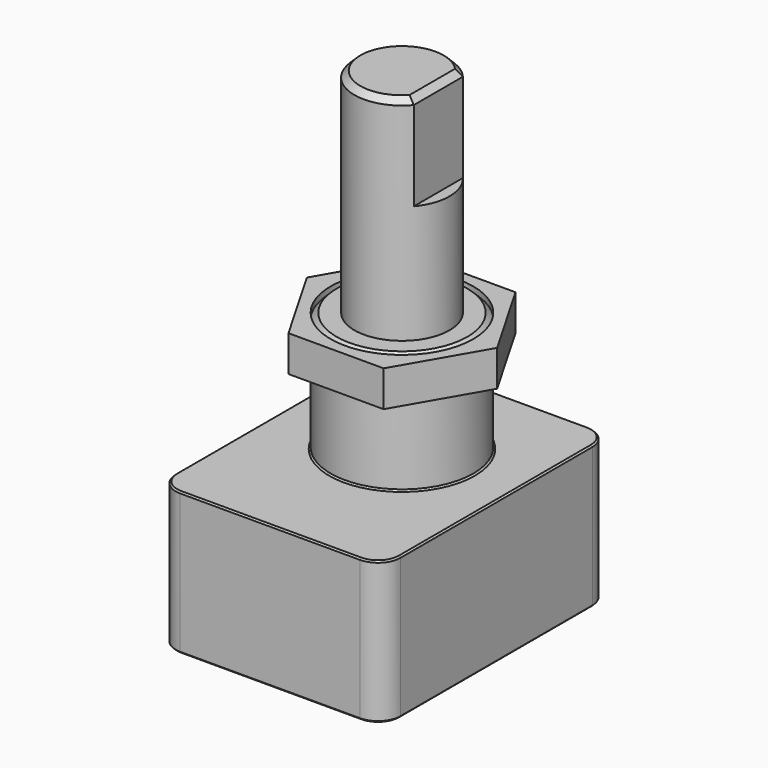
from build123d import *

# Parameters (mm, degrees)
F1_DEPTH  = 9.5
F2_R      = 4.7625
F3_DEPTH  = 8
F4_R      = 3.175
F5_DEPTH  = 14.22
F7_DEPTH  = 6.35
F8_SIZE   = 0.4
F9_R      = 1.5
F10_SIZE  = 0.1
F11_R     = 4.7625
F12_DEPTH = 2.4


with BuildPart() as f1:
    # F0 (on Top) → F1 (new body)
    with BuildSketch(Plane.XY):
        Polygon((7.5, 8), (-7.5, 8), (-7.5, -4.7), (-7.5, -11), (7.5, -11), (7.5, -8), align=None)
    extrude(amount=F1_DEPTH)

    # F2 (on face) → F3 (join)
    with BuildSketch(Plane.XY.offset(9.5)):
        Circle(F2_R)
    extrude(amount=F3_DEPTH)

    # F4 (on face) → F5 (join)
    with BuildSketch(Plane.XY.offset(17.5)):
        Circle(F4_R)
    extrude(amount=F5_DEPTH)

    # F6 (on face) → F7 (cut)
    with BuildSketch(Plane.XY.offset(31.72)):
        with BuildLine():
            Line((2.425, 2.0493901532), (2.425, -2.0493901532))
            ThreePointArc((2.425, -2.0493901532), (3.175, 0), (2.425, 2.0493901532))
        make_face()
    extrude(amount=-F7_DEPTH, mode=Mode.SUBTRACT)

    # F8
    f8_edges = [f1.edges().sort_by_distance(p)[0] for p in [
        (-3.175, 0, 31.72),
        (2.425, 0, 31.72),
        (-4.7625, 0, 17.5),
    ]]
    chamfer(f8_edges, length=F8_SIZE)

    # F9
    f9_edges = [f1.edges().sort_by_distance(p)[0] for p in [
        (-7.5, -11, 4.75),
        (7.5, -11, 4.75),
        (7.5, 8, 4.75),
        (-7.5, 8, 4.75),
    ]]
    fillet(f9_edges, radius=F9_R)

    # F10
    f10_edges = [f1.edges().sort_by_distance(p)[0] for p in [
        (0, 8, 9.5),
        (7.06066, 7.56066, 9.5),
        (-7.06066, 7.56066, 9.5),
        (7.5, -1.5, 9.5),
        (-7.5, -1.5, 9.5),
        (7.06066, -10.56066, 9.5),
        (-7.06066, -10.56066, 9.5),
        (0, -11, 9.5),
        (-4.7625, 0, 9.5),
        (0, 8, 0),
        (7.06066, 7.56066, 0),
        (-7.06066, 7.56066, 0),
        (7.5, -1.5, 0),
        (-7.5, -1.5, 0),
        (7.06066, -10.56066, 0),
        (-7.06066, -10.56066, 0),
        (0, -11, 0),
    ]]
    chamfer(f10_edges, length=F10_SIZE)


with BuildPart() as f12:
    # F11 (on face) → F12 (new body)
    with BuildSketch(Plane.XY.offset(17.5)):
        Polygon((3.1754264805, 5.5), (-3.1754264805, 5.5), (-6.3508529611, 0), (-3.1754264805, -5.5), (3.1754264805, -5.5), (6.3508529611, 0), align=None)
        Circle(F11_R, mode=Mode.SUBTRACT)
    extrude(amount=-F12_DEPTH)


solid = Compound([f1.part, f12.part])
